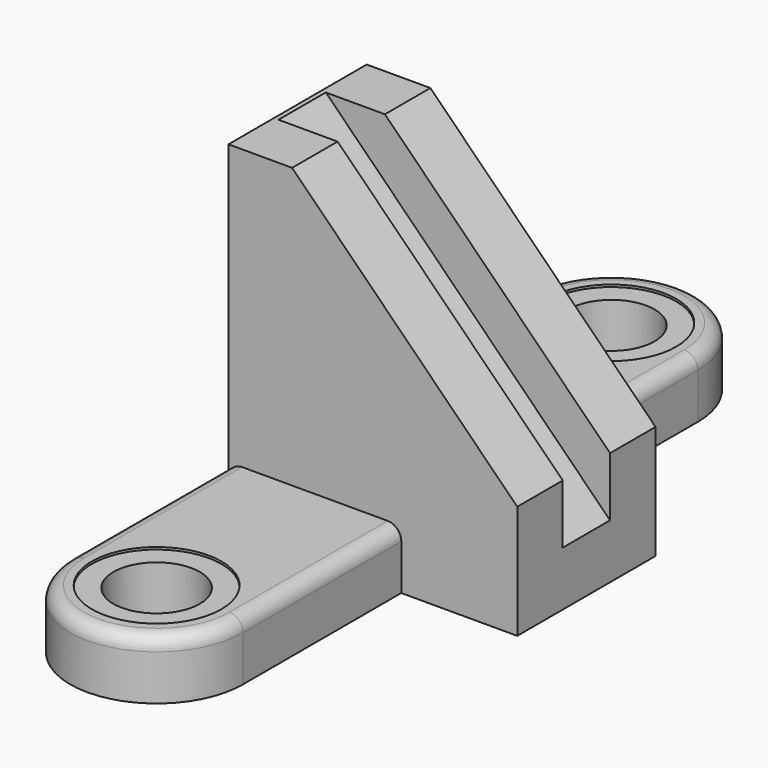
from build123d import *

# Parameters (mm, degrees)
F1_DEPTH  = 38
F4_DEPTH  = 13
F5_DEPTH  = 26
F6_R      = 19
F7_DEPTH  = 26.001
F8_R      = 28.5
F9_DEPTH  = 1
F10_R     = 19
F11_DEPTH = 26.001
F12_R     = 28.5
F13_DEPTH = 1
F14_R     = 6


with BuildPart() as f1:
    # F0 (on Front) → F1 (new body, symmetric)
    with BuildSketch(Plane.XZ):
        Polygon((0, 149), (0, 0), (127, 0), (127, 50), (28, 149), align=None)
    extrude(amount=F1_DEPTH, both=True)

    # F3 (on Front) → F4 (cut, symmetric)
    with BuildSketch(Plane.XZ):
        Polygon((127, 50), (28, 149), (2, 149), (127, 24), align=None)
    extrude(amount=F4_DEPTH, both=True, mode=Mode.SUBTRACT)

    # F2 (on face) → F5 (join)
    with BuildSketch(Plane(origin=(0, 0, 0), x_dir=(1, 0, 0), z_dir=(0, 0, -1))):
        with BuildLine():
            ThreePointArc((0, -125), (38, -163), (76, -125))
            Line((76, -125), (76, 125))
            ThreePointArc((76, 125), (38, 163), (0, 125))
            Line((0, 125), (0, -125))
        make_face()
    extrude(amount=-F5_DEPTH)

    # F6 (on face) → F7 (cut, through all)
    with BuildSketch(Plane.XY.offset(26)):
        with Locations((38, -125)):
            Circle(F6_R)
    extrude(amount=-F7_DEPTH, mode=Mode.SUBTRACT)

    # F8 (on face) → F9 (cut)
    with BuildSketch(Plane.XY.offset(26)):
        with Locations((38, -125)):
            Circle(F8_R)
    extrude(amount=-F9_DEPTH, mode=Mode.SUBTRACT)

    # F10 (on face) → F11 (cut, through all)
    with BuildSketch(Plane.XY.offset(26)):
        with Locations((38, 125)):
            Circle(F10_R)
    extrude(amount=-F11_DEPTH, mode=Mode.SUBTRACT)

    # F12 (on face) → F13 (cut)
    with BuildSketch(Plane.XY.offset(26)):
        with Locations((38, 125)):
            Circle(F12_R)
    extrude(amount=-F13_DEPTH, mode=Mode.SUBTRACT)

    # F14
    f14_edges = [f1.edges().sort_by_distance(p)[0] for p in [
        (76, -81.5, 26),
        (76, 81.5, 26),
        (0, 81.5, 26),
        (0, -81.5, 26),
        (38, -163, 26),
        (38, 163, 26),
    ]]
    fillet(f14_edges, radius=F14_R)


solid = f1.part
